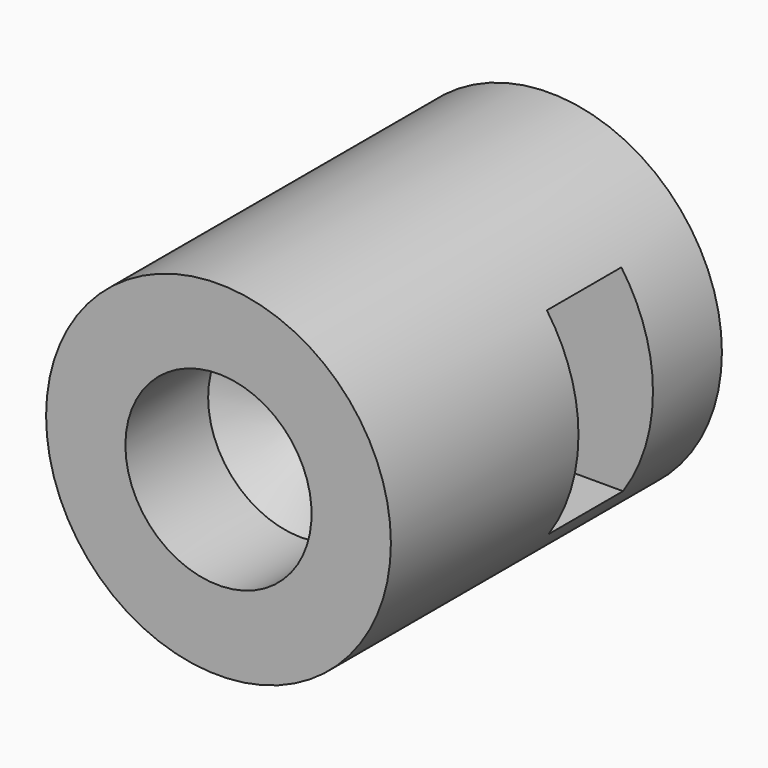
from build123d import *

# Parameters (mm, degrees)
F3_R     = 5
F4_DEPTH = 12
F6_D     = 5.4
F6_DEPTH = 3
F6_TIP   = 1.6223236714
F7_D     = 3.5
F7_DEPTH = 6
F7_TIP   = 1.0515060833
F8_W     = 2.7
F8_H     = 5.7
F9_DEPTH = 38.4228628705


with BuildPart() as f4:
    # F3 (on Front) → F4 (new body)
    with BuildSketch(Plane.XZ):
        with Locations((-33.4218628705, 28.5066645592)):
            Circle(F3_R)
    extrude(amount=-F4_DEPTH)

    # F6
    with Locations(Plane.XZ):
        with Locations((-33.4218628705, 28.5066645592)):
            Hole(F6_D / 2, depth=F6_DEPTH)
            with Locations((0, 0, -(F6_DEPTH + F6_TIP / 2))):  # 118° drill point
                Cone(0, F6_D / 2, F6_TIP, mode=Mode.SUBTRACT)

    # F7
    with Locations(Plane(origin=(0, 12, 0), x_dir=(-1, 0, 0), z_dir=(0, 1, 0))):
        with Locations((33.4218628705, 28.5066645592)):
            Hole(F7_D / 2, depth=F7_DEPTH)
            with Locations((0, 0, -(F7_DEPTH + F7_TIP / 2))):  # 118° drill point
                Cone(0, F7_D / 2, F7_TIP, mode=Mode.SUBTRACT)

    # F8 (on Right) → F9 (cut, through all)
    with BuildSketch(Plane.YZ):
        with Locations((8.15, 28.5412482917)):
            Rectangle(F8_W, F8_H)
    extrude(amount=-F9_DEPTH, mode=Mode.SUBTRACT)


solid = f4.part
